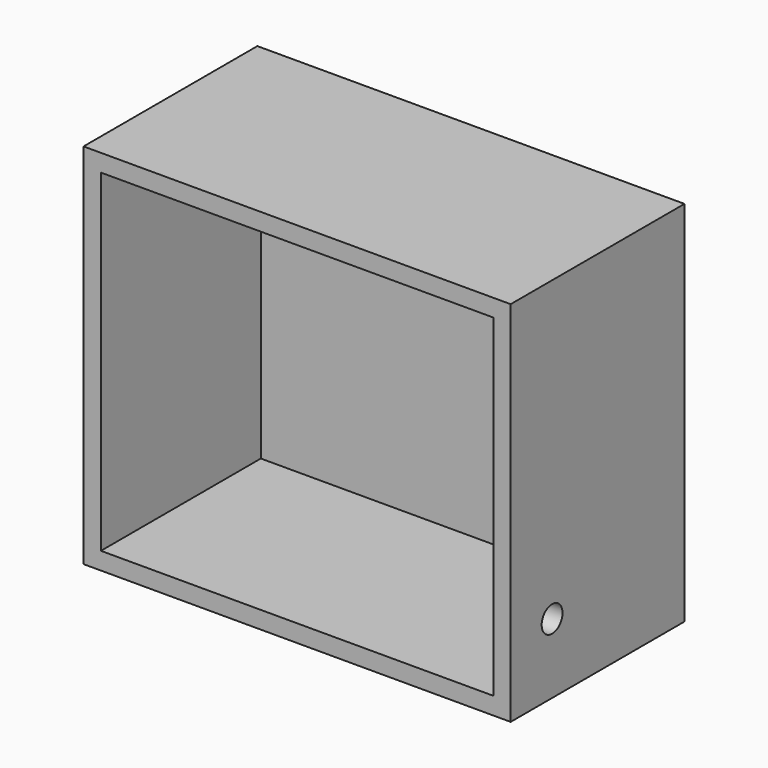
from build123d import *

# Parameters (mm, degrees)
F0_W     = 45.1445972584
F0_H     = 38.3139892519
F1_DEPTH = 2
F0_W_2   = 49.1445972584
F0_H_2   = 42.3139892519
F2_DEPTH = 25
F3_R     = 1.5
F4_DEPTH = 2


with BuildPart() as f1:
    # F0 (on Front) → F1 (new body)
    with BuildSketch(Plane.XZ):
        with Locations((0.661252765, 0)):
            Rectangle(F0_W, F0_H)
    extrude(amount=F1_DEPTH)

    # F0 (on Front) → F2 (join)
    with BuildSketch(Plane.XZ):
        with Locations((0.661252765, 0)):
            Rectangle(F0_W_2, F0_H_2)
        with Locations((0.661252765, 0)):
            Rectangle(F0_W, F0_H, mode=Mode.SUBTRACT)
    extrude(amount=F2_DEPTH)

    # F3 (on face) → F4 (cut, through all)
    with BuildSketch(Plane.YZ.offset(25.2335513942)):
        with Locations((-19.0394744277, -13.1474239752)):
            Circle(F3_R)
    extrude(amount=-F4_DEPTH, mode=Mode.SUBTRACT)


solid = f1.part
